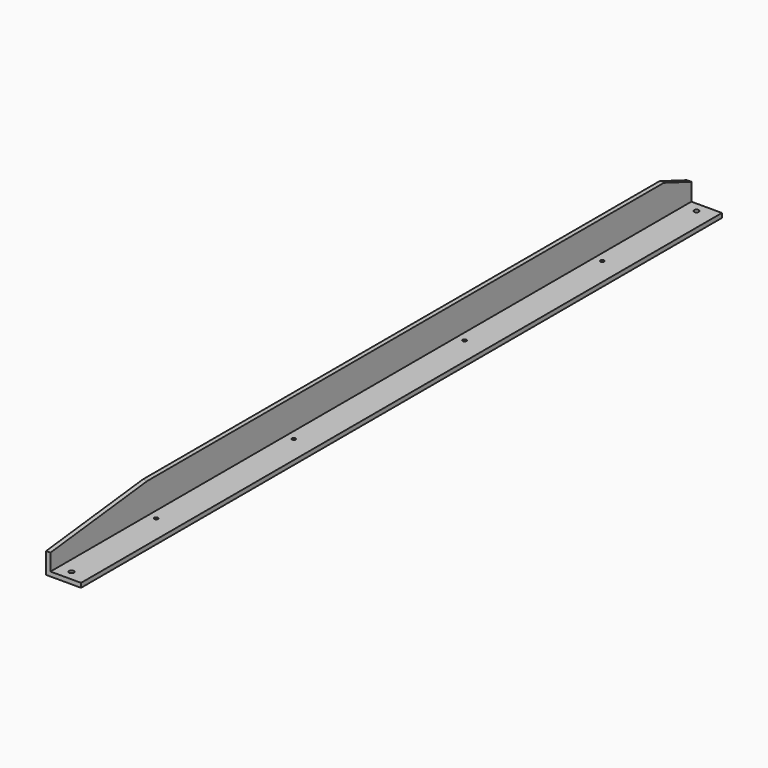
from build123d import *

# Parameters (mm, degrees)
F1_DEPTH = 291
F3_SIZE2 = 10.1
F3_SIZE  = 88
F4_SIZE2 = 25
F4_SIZE  = 9.5
F5_R     = 1.75
F6_DEPTH = 3.2
F2_R     = 1.35
F7_DEPTH = 25.401


with BuildPart() as f1:
    # F0 (on Front) → F1 (new body, symmetric)
    with BuildSketch(Plane.XZ):
        Polygon((-9.5, 12.7), (-12.7, 12.7), (-12.7, -12.7), (12.7, -12.7), (12.7, -9.5), (-9.5, -9.5), align=None)
    extrude(amount=F1_DEPTH, both=True)

    # F3
    f3_edges = [f1.edges().sort_by_distance(p)[0] for p in [
        (-11.1, -291, 12.7),
    ]]
    f3_side = f1.faces().sort_by_distance((-11.1, 0, 12.7))[0]
    chamfer(f3_edges, length=F3_SIZE, length2=F3_SIZE2, reference=f3_side)

    # F4
    f4_edges = [f1.edges().sort_by_distance(p)[0] for p in [
        (-11.1, 291, 12.7),
    ]]
    f4_side = f1.faces().sort_by_distance((-11.1, 291, 12.34079))[0]
    chamfer(f4_edges, length=F4_SIZE, length2=F4_SIZE2, reference=f4_side)

    # F5 (on face) → F6 (cut, through all)
    with BuildSketch(Plane.XY.offset(-9.5)):
        with Locations((0, -283.8)):
            Circle(F5_R)
        with Locations((0, 283.8)):
            Circle(F5_R)
    extrude(amount=-F6_DEPTH, mode=Mode.SUBTRACT)

    # F2 (on face) → F7 (cut, through all)
    with BuildSketch(Plane(origin=(0, 0, -12.7), x_dir=(1, 0, 0), z_dir=(0, 0, -1))):
        with Locations((-3.5, 77.5)):
            Circle(F2_R)
        with Locations((-3.5, -77.5)):
            Circle(F2_R)
        with Locations((-3.5, -202.5)):
            Circle(F2_R)
        with Locations((-3.5, 202.5)):
            Circle(F2_R)
    extrude(amount=-F7_DEPTH, mode=Mode.SUBTRACT)


solid = f1.part
